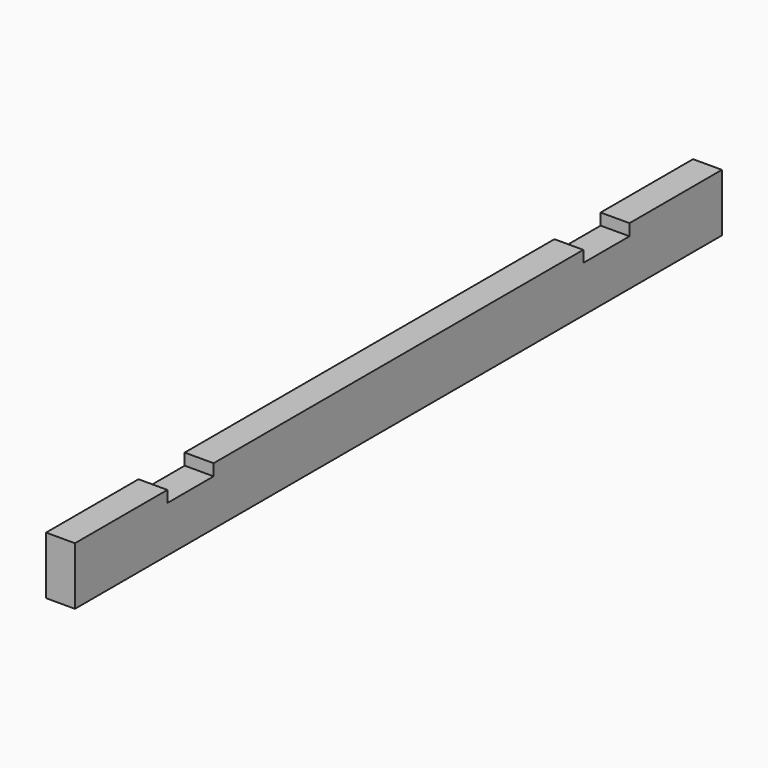
from build123d import *

# Parameters (mm, degrees)
F0_W     = 50
F0_H     = 100
F1_DEPTH = 1400
F2_W     = 100
F2_H     = 20
F3_DEPTH = 50.001


with BuildPart() as f1:
    # F0 (on Front) → F1 (new body)
    with BuildSketch(Plane.XZ):
        with Locations((25, 50)):
            Rectangle(F0_W, F0_H)
    extrude(amount=F1_DEPTH)

    # F2 (on face) → F3 (cut, through all)
    with BuildSketch(Plane.YZ.offset(50)):
        with Locations((-250, 90)):
            Rectangle(F2_W, F2_H)
        with Locations((-1150, 90)):
            Rectangle(F2_W, F2_H)
    extrude(amount=-F3_DEPTH, mode=Mode.SUBTRACT)


solid = f1.part
